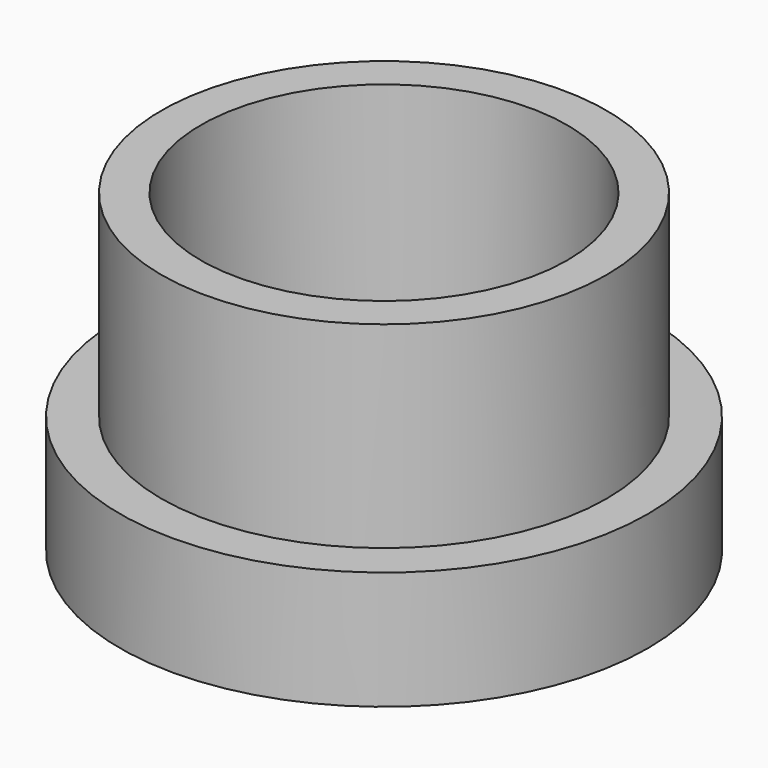
from build123d import *

# Parameters (mm, degrees)
SKETCH029_R     = 13.4
PAD020_DEPTH    = 6
SKETCH030_R     = 11.3
PAD021_DEPTH    = 10
SKETCH031_R     = 9.3
POCKET008_DEPTH = 16.001


with BuildPart() as part:
    # Sketch029 → Pad020 (new body)
    with BuildSketch(Plane.XY):
        with Locations((0, 18)):
            Circle(SKETCH029_R)
    extrude(amount=PAD020_DEPTH)

    # Sketch030 (on Face3 of Pad020) → Pad021 (join)
    with BuildSketch(Plane.XY.offset(6)):
        with Locations((0, 18)):
            Circle(SKETCH030_R)
    extrude(amount=PAD021_DEPTH)

    # Sketch031 (on Face5 of Pad021) → Pocket008 (cut, through all)
    with BuildSketch(Plane.XY.offset(16)):
        with Locations((0, 18)):
            Circle(SKETCH031_R)
    extrude(amount=-POCKET008_DEPTH, mode=Mode.SUBTRACT)


with BuildPart() as part_1:
    # Body038 placement: moved
    add(part.part.moved(Location((0, 0, 4))))


solid = part_1.part
